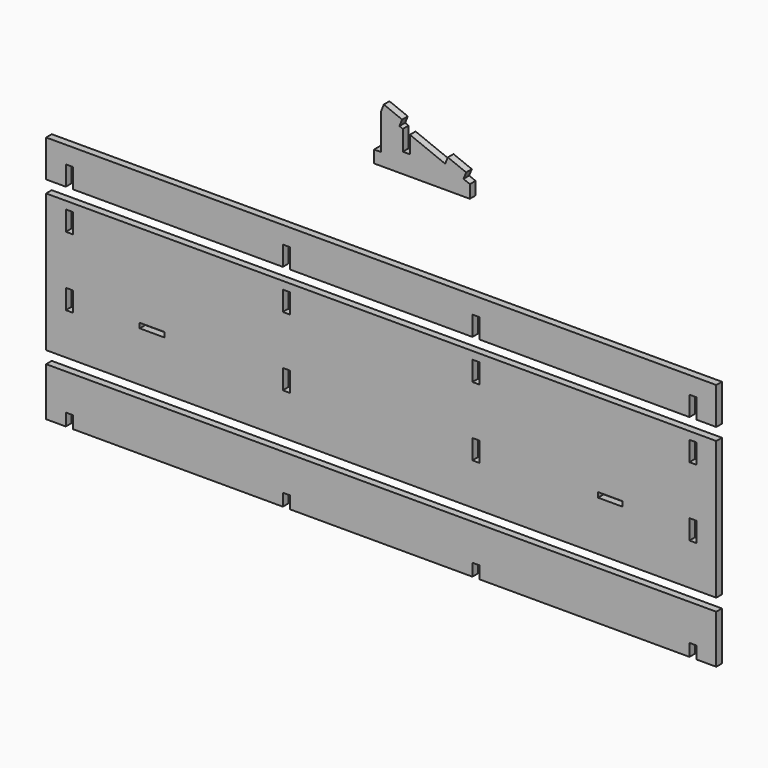
from build123d import *

# Parameters (mm, degrees)
F0_W     = 18.288
F0_H     = 31.75
F1_DEPTH = 18.288
F0_W_2   = 1727.2
F0_H_2   = 355.6
F0_H_3   = 50.8
F0_W_3   = 63.5
F0_H_4   = 12.7


with BuildPart() as f1:
    # F0 (on Front) → F1 (new body)
    with BuildSketch(Plane.XZ):
        Polygon((47.15337043, 626.7682736239), (0, 645.668), (0, 552.45), (0, 520.7), (228.6, 520.7), (228.6, 554.041942092), (212.190166935, 560.6192313076), (181.2694409242, 573.0126881406), (165.036796505, 579.5189576837), (74.1441349231, 615.95), (74.1441349231, 571.5), (55.8561349231, 571.5), (55.8561349231, 615.95), (55.8561349231, 623.2800846326), align=None)
        Polygon((6.8039014954, 662.6432133548), (0, 645.668), (47.15337043, 626.7682736239), (53.9572719254, 643.7434869787), align=None)
        Polygon((181.2694409242, 573.0126881406), (212.190166935, 560.6192313076), (218.9940684304, 577.5944446624), (188.0733424196, 589.9879014954), align=None)
        Polygon((171.8406980004, 596.4941710385), (165.036796505, 579.5189576837), (181.2694409242, 573.0126881406), (188.0733424196, 589.9879014954), align=None)
        with Locations((-9.144, 536.575)):
            Rectangle(F0_W, F0_H)
    extrude(amount=F1_DEPTH)


with BuildPart() as f1b:
    # F0 (on Front) → F1, piece 2 (new body)
    with BuildSketch(Plane.XZ):
        Polygon((-863.6, 304.8), (-863.6, 209.55), (-812.8, 209.55), (-812.8, 260.35), (-794.512, 260.35), (-794.512, 209.55), (-253.492, 209.55), (-253.492, 260.35), (-235.204, 260.35), (-235.204, 209.55), (235.204, 209.55), (235.204, 260.35), (253.492, 260.35), (253.492, 209.55), (794.512, 209.55), (794.512, 260.35), (812.8, 260.35), (812.8, 209.55), (863.6, 209.55), (863.6, 304.8), align=None)
    extrude(amount=F1_DEPTH)


with BuildPart() as f1c:
    # F0 (on Front) → F1, piece 3 (new body)
    with BuildSketch(Plane.XZ):
        Rectangle(F0_W_2, F0_H_2)
        with Locations((-803.656, -45.1023116593)):
            Rectangle(F0_W, F0_H_3, mode=Mode.SUBTRACT)
        with Locations((-590.55, -43.5403157824)):
            Rectangle(F0_W_3, F0_H_4, mode=Mode.SUBTRACT)
        with Locations((-803.656, 132.6976883407)):
            Rectangle(F0_W, F0_H_3, mode=Mode.SUBTRACT)
        with Locations((-244.348, -45.1023116593)):
            Rectangle(F0_W, F0_H_3, mode=Mode.SUBTRACT)
        with Locations((-244.348, 132.6976883407)):
            Rectangle(F0_W, F0_H_3, mode=Mode.SUBTRACT)
        with Locations((244.348, -45.1023116593)):
            Rectangle(F0_W, F0_H_3, mode=Mode.SUBTRACT)
        with Locations((244.348, 132.6976883407)):
            Rectangle(F0_W, F0_H_3, mode=Mode.SUBTRACT)
        with Locations((590.55, -43.5403157824)):
            Rectangle(F0_W_3, F0_H_4, mode=Mode.SUBTRACT)
        with Locations((803.656, -45.1023116593)):
            Rectangle(F0_W, F0_H_3, mode=Mode.SUBTRACT)
        with Locations((803.656, 132.6976883407)):
            Rectangle(F0_W, F0_H_3, mode=Mode.SUBTRACT)
    extrude(amount=F1_DEPTH)


with BuildPart() as f1d:
    # F0 (on Front) → F1, piece 4 (new body)
    with BuildSketch(Plane.XZ):
        Polygon((863.6, -209.55), (-863.6, -209.55), (-863.6, -334.518), (-812.8, -334.518), (-812.8, -302.768), (-794.512, -302.768), (-794.512, -334.518), (-253.492, -334.518), (-253.492, -302.768), (-235.204, -302.768), (-235.204, -334.518), (235.204, -334.518), (235.204, -302.768), (253.492, -302.768), (253.492, -334.518), (794.512, -334.518), (794.512, -302.768), (812.8, -302.768), (812.8, -334.518), (863.6, -334.518), align=None)
    extrude(amount=F1_DEPTH)


solid = Compound([f1.part, f1b.part, f1c.part, f1d.part])
